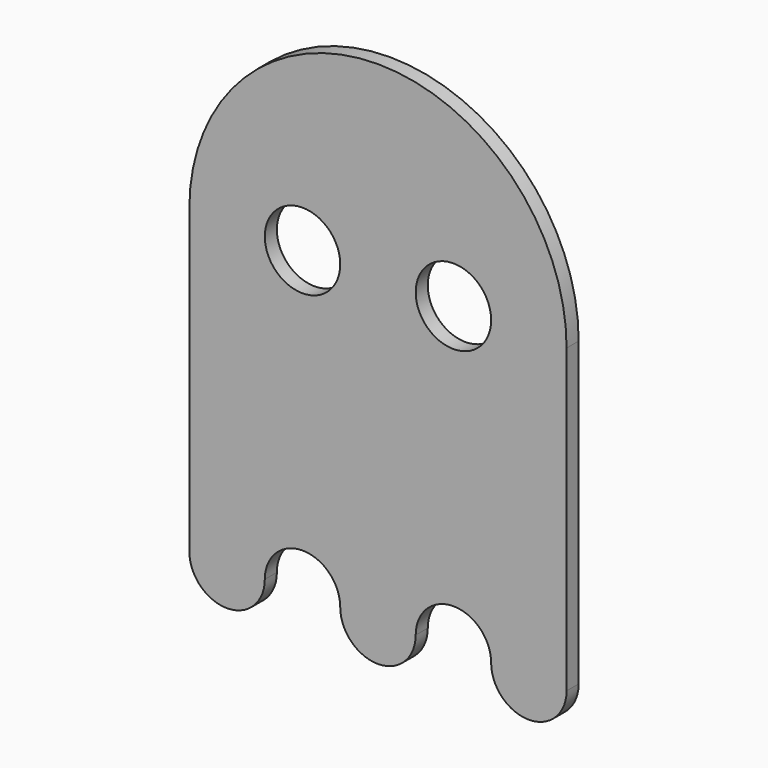
from build123d import *

# Parameters (mm, degrees)
F0_R     = 2.5
F1_DEPTH = 1


with BuildPart() as f1:
    # F0 (on Front) → F1 (new body)
    with BuildSketch(Plane.XZ):
        with BuildLine():
            ThreePointArc((12.5, 0), (0, 12.5), (-12.5, 0))
            Line((-12.5, 0), (-12.5, -20))
            ThreePointArc((-12.5, -20), (-10, -22.5), (-7.5, -20))
            ThreePointArc((-7.5, -20), (-5, -17.5), (-2.5, -20))
            ThreePointArc((-2.5, -20), (-1.767767, -21.767767), (0, -22.5))
            ThreePointArc((0, -22.5), (1.767767, -21.767767), (2.5, -20))
            ThreePointArc((2.5, -20), (5, -17.5), (7.5, -20))
            ThreePointArc((7.5, -20), (10, -22.5), (12.5, -20))
            Line((12.5, -20), (12.5, 0))
        make_face()
        with Locations((-5, 0)):
            Circle(F0_R, mode=Mode.SUBTRACT)
        with Locations((5, 0)):
            Circle(F0_R, mode=Mode.SUBTRACT)
    extrude(amount=F1_DEPTH)


solid = f1.part
